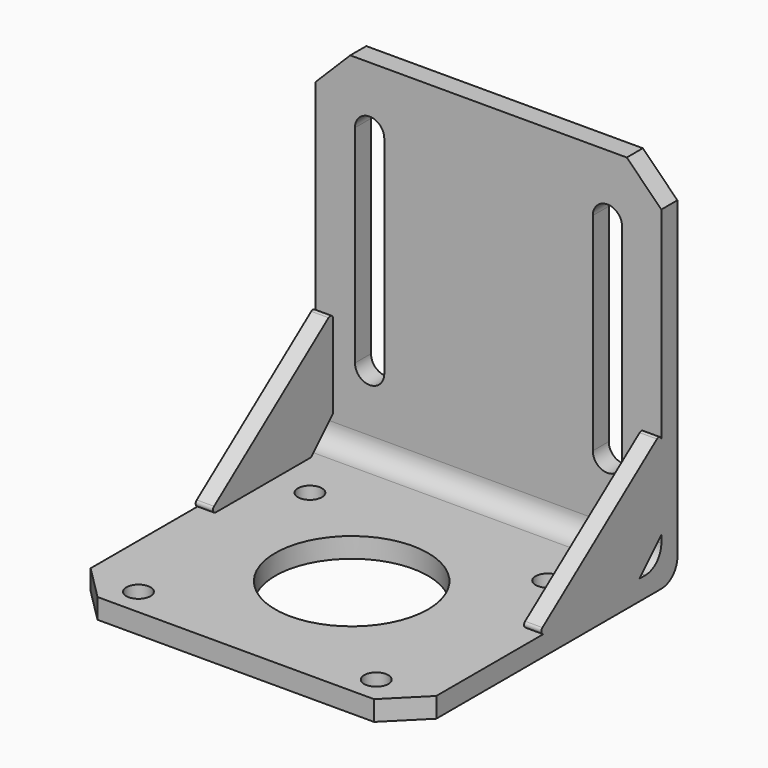
from build123d import *

# Parameters (mm, degrees)
F1_DEPTH = 2.9
F2_R     = 1.75
F2_R_2   = 11.05
F3_DEPTH = 2.9
F4_R     = 2.9
F7_DEPTH = 2.5


with BuildPart() as f1:
    # F0 (on Front) → F1 (new body)
    with BuildSketch(Plane.XZ):
        Polygon((-25, 48.3), (-25, 0), (25, 0), (25, 48.3), (20, 53.3), (-20, 53.3), align=None)
        with BuildLine():
            ThreePointArc((-19.32, 44.3), (-17.2, 46.42), (-15.08, 44.3))
            Line((-15.08, 44.3), (-15.08, 14.34))
            ThreePointArc((-15.08, 14.34), (-17.2, 12.22), (-19.32, 14.34))
            Line((-19.32, 14.34), (-19.32, 44.3))
        make_face(mode=Mode.SUBTRACT)
        with BuildLine():
            ThreePointArc((15.08, 44.3), (17.2, 46.42), (19.32, 44.3))
            Line((19.32, 44.3), (19.32, 14.34))
            ThreePointArc((19.32, 14.34), (17.2, 12.22), (15.08, 14.34))
            Line((15.08, 14.34), (15.08, 44.3))
        make_face(mode=Mode.SUBTRACT)
    extrude(amount=F1_DEPTH)

    # F2 (on Top) → F3 (join)
    with BuildSketch(Plane.XY):
        Polygon((25, 0), (-25, 0), (-25, -43.6), (-20, -48.6), (20, -48.6), (25, -43.6), align=None)
        with Locations((-17.2, -44.7)):
            Circle(F2_R, mode=Mode.SUBTRACT)
        with Locations((17.2, -44.7)):
            Circle(F2_R, mode=Mode.SUBTRACT)
        with Locations((0, -27.65)):
            Circle(F2_R_2, mode=Mode.SUBTRACT)
        with Locations((-17.2, -13.7)):
            Circle(F2_R, mode=Mode.SUBTRACT)
        with Locations((17.2, -13.7)):
            Circle(F2_R, mode=Mode.SUBTRACT)
    extrude(amount=F3_DEPTH)

    # F4
    f4_edges = [f1.edges().sort_by_distance(p)[0] for p in [
        (0, -2.9, 2.9),
        (0, 0, 0),
    ]]
    fillet(f4_edges, radius=F4_R)

    # F6 (on offset) → F7 (join)
    with BuildSketch(Plane.YZ.offset(25)):
        with BuildLine():
            Line((-3.700844, 19.396721), (-24.406105, 3.799366))
            ThreePointArc((-24.406105, 3.799366), (-24.579436, 3.241385), (-24.105261, 2.9))
            Line((-24.105261, 2.9), (-6.861522, 2.9))
            Line((-6.861522, 2.9), (-2.9, 6.861522))
            Line((-2.9, 6.861522), (-2.9, 18.997355))
            ThreePointArc((-2.9, 18.997355), (-3.176865, 19.444805), (-3.700844, 19.396721))
        make_face()
    extrude(amount=-F7_DEPTH)

    # F8: F1 across plane


with BuildPart() as f1_1:
    add(f1.part)
    add(f1.part.mirror(Plane.YZ))


solid = f1_1.part
